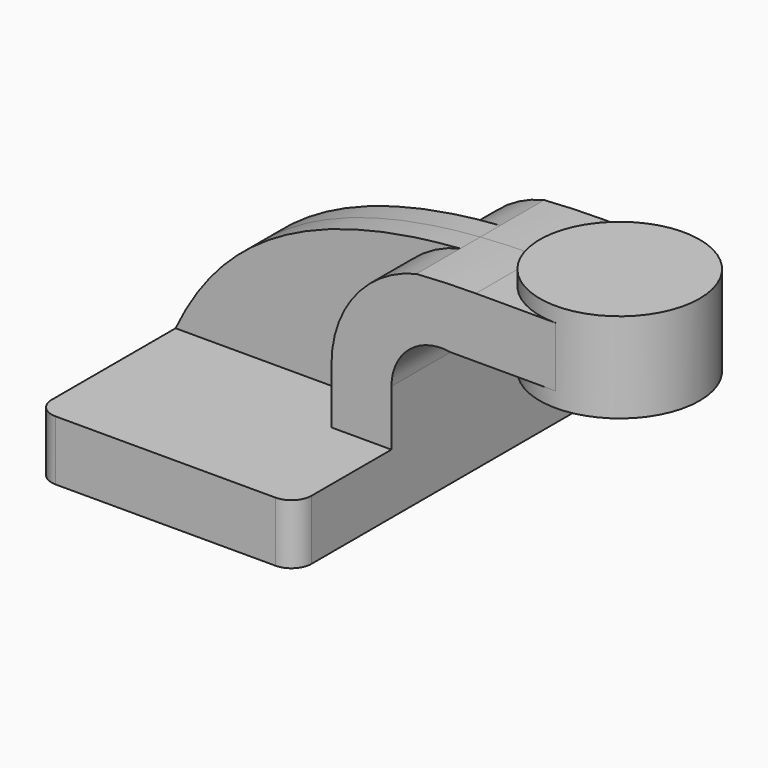
from build123d import *

# Parameters (mm, degrees)
F1_DEPTH = 63.5
F0_W     = 25.4
F0_H     = 19.05
F2_DEPTH = 25.4
F3_DEPTH = 7.9375
F5_R     = 6.35


with BuildPart() as f1:
    # F0 (on Front) → F1 (new body, symmetric)
    with BuildSketch(Plane.XZ):
        Polygon((-41.275, 9.525), (-41.275, -9.525), (41.275, -9.525), (41.275, 9.525), (22.225, 9.525), align=None)
    extrude(amount=F1_DEPTH, both=True)

    # F0 (on Front) → F2 (join, symmetric)
    with BuildSketch(Plane.XZ):
        with BuildLine():
            Line((22.225, 9.525), (41.275, 9.525))
            Line((41.275, 9.525), (41.275, 27.234414))
            ThreePointArc((41.275, 27.234414), (46.930285, 39.382379), (59.86688, 42.8752))
            Line((59.86688, 42.8752), (68.073841, 42.8752))
            Line((68.073841, 42.8752), (68.073841, 61.9252))
            add(Edge.make_bspline(
                [(49.186449, 61.239376), (55.109251, 61.677968), (61.396661, 61.911853), (68.073841, 61.9252)],
                knots=[109.362074, 109.362074, 109.362074, 109.362074, 121.255722, 121.255722, 121.255722, 121.255722], degree=3))
            ThreePointArc((49.186449, 61.239376), (29.783208, 48.93267), (22.225, 27.234414))
            Line((22.225, 27.234414), (22.225, 9.525))
        make_face()
        with Locations((80.773841, 52.4002)):
            Rectangle(F0_W, F0_H)
    extrude(amount=F2_DEPTH, both=True)

    # F0 (on Front) → F3 (join, symmetric)
    with BuildSketch(Plane.XZ):
        with BuildLine():
            add(Edge.make_bspline(
                [(-41.275, 9.525), (-28.906992, 35.866078), (-5.273707, 57.206524), (49.186449, 61.239376)],
                knots=[0, 0, 0, 0, 109.362074, 109.362074, 109.362074, 109.362074], degree=3))
            Line((-41.275, 9.525), (22.225, 9.525))
            Line((22.225, 9.525), (22.225, 27.234414))
            ThreePointArc((22.225, 27.234414), (29.783208, 48.93267), (49.186449, 61.239376))
        make_face()
    extrude(amount=F3_DEPTH, both=True)

    # F0 (on Front) → F4 (revolve)
    with BuildSketch(Plane.XZ):
        Polygon((93.473841, 66.675), (93.473841, 61.9252), (93.473841, 42.8752), (93.473841, 38.1), (118.873841, 38.1), (118.873841, 66.675), align=None)
    revolve(axis=Axis((93.473841, 0, 52.3875), (0, 0, 1)))

    # F5
    f5_edges = [f1.edges().sort_by_distance(p)[0] for p in [
        (-41.275, -63.5, 0),
        (41.275, -63.5, 0),
        (41.275, 63.5, 0),
        (-41.275, 63.5, 0),
    ]]
    fillet(f5_edges, radius=F5_R)


solid = f1.part
